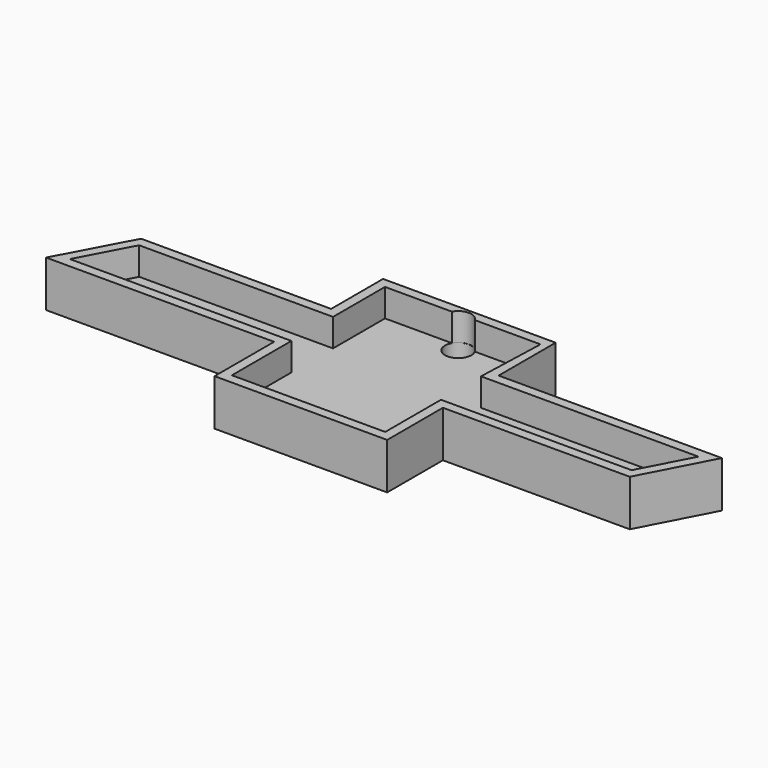
from build123d import *

# Parameters (mm, degrees)
F0_R     = 2.260127
F1_DEPTH = 3.175
F3_DEPTH = 4.7625


with BuildPart() as f1:
    # F0 (on Top) → F1 (new body)
    with BuildSketch(Plane.XY):
        Polygon((14.525386, 39.249118), (-15.101627, 39.249118), (-15.101627, 28.105013), (-47.718525, 28.105013), (-54.241903, 15.873676), (-15.101627, 15.873676), (-15.101627, 3.098726), (14.525386, 3.098726), (14.525386, 15.058255), (46.598669, 15.058255), (52.850239, 27.017783), (14.525386, 27.017783), align=None)
        with Locations((0, 36.496218)):
            Circle(F0_R, mode=Mode.SUBTRACT)
    extrude(amount=F1_DEPTH)

    # F2 (on face) → F3 (join)
    with BuildSketch(Plane.XY.offset(3.175)):
        Polygon((-15.101627, 39.249118), (-15.101627, 28.105013), (-47.718525, 28.105013), (-54.241903, 15.873676), (-15.101627, 15.873676), (-15.101627, 3.098726), (14.525386, 3.098726), (14.525386, 15.058255), (46.598669, 15.058255), (52.850239, 27.017783), (14.525386, 27.017783), (14.525386, 39.249118), align=None)
        with BuildLine():
            Line((-46.727925, 26.454013), (-13.450627, 26.454013))
            Line((-13.450627, 26.454013), (-13.450627, 37.598118))
            Line((-13.450627, 37.598118), (-1.973319, 37.598118))
            ThreePointArc((-1.973319, 37.598118), (0, 38.756345), (1.973319, 37.598118))
            Line((1.973319, 37.598118), (13.23948, 37.598118))
            Line((13.23948, 37.598118), (12.816273, 25.366783))
            Line((12.816273, 25.366783), (50.12426, 25.366783))
            Line((50.12426, 25.366783), (45.598735, 16.709255))
            Line((45.598735, 16.709255), (12.874386, 16.709255))
            Line((12.874386, 16.709255), (12.874386, 4.749726))
            Line((12.874386, 4.749726), (-13.450627, 4.749726))
            Line((-13.450627, 4.749726), (-13.450627, 17.524676))
            Line((-13.450627, 17.524676), (-51.490237, 17.524676))
            Line((-51.490237, 17.524676), (-46.727925, 26.454013))
        make_face(mode=Mode.SUBTRACT)
    extrude(amount=F3_DEPTH)


solid = f1.part
